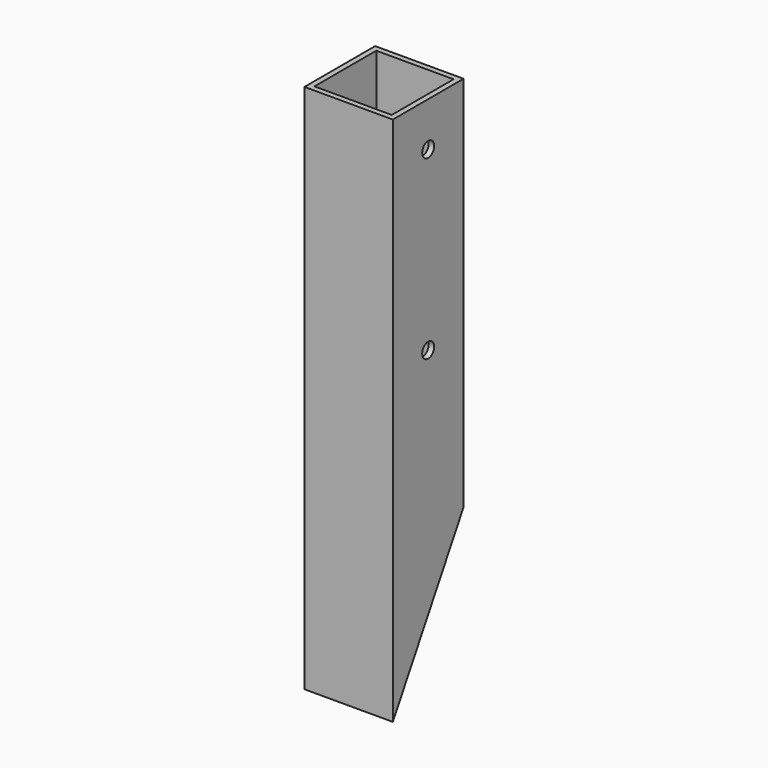
from build123d import *

# Parameters (mm, degrees)
F0_W     = 25.4
F0_H     = 25.4
F0_W_2   = 22.225
F0_H_2   = 22.225
F1_DEPTH = 152.4
F3_DEPTH = 25.4
F4_R     = 2.15265
F5_DEPTH = 25.4


with BuildPart() as f1:
    # F0 (on Top) → F1 (new body)
    with BuildSketch(Plane.XY):
        Rectangle(F0_W, F0_H)
        Rectangle(F0_W_2, F0_H_2, mode=Mode.SUBTRACT)
    extrude(amount=F1_DEPTH)

    # F2 (on face) → F3 (cut, through all)
    with BuildSketch(Plane.YZ.offset(12.7)):
        Polygon((12.7, 43.994091), (-12.7, 0), (12.7, 0), align=None)
    extrude(amount=-F3_DEPTH, mode=Mode.SUBTRACT)

    # F4 (on face) → F5 (cut, through all)
    with BuildSketch(Plane.YZ.offset(12.7)):
        with Locations((0, 139.7)):
            Circle(F4_R)
        with Locations((0, 88.9)):
            Circle(F4_R)
    extrude(amount=-F5_DEPTH, mode=Mode.SUBTRACT)


solid = f1.part
